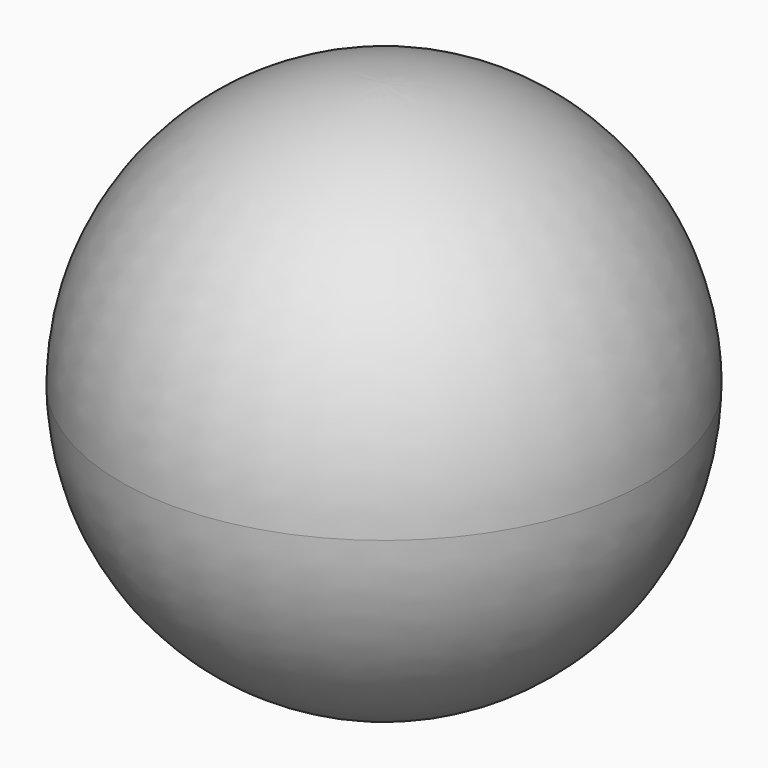
from build123d import *


with BuildPart() as f1:
    # F0 (on Front) → F1 (revolve)
    with BuildSketch(Plane.XZ):
        with BuildLine():
            Line((0, -75.000003), (0, 75.000159))
            ThreePointArc((0, 75.000159), (-52.745156, 52.86954), (-74.576959, 0))
            ThreePointArc((-74.576959, 0), (-52.540509, -52.666), (0, -75.000003))
        make_face()
    revolve(axis=Axis((0, 0, 7.8e-05), (0, 0, -1)))


solid = f1.part
